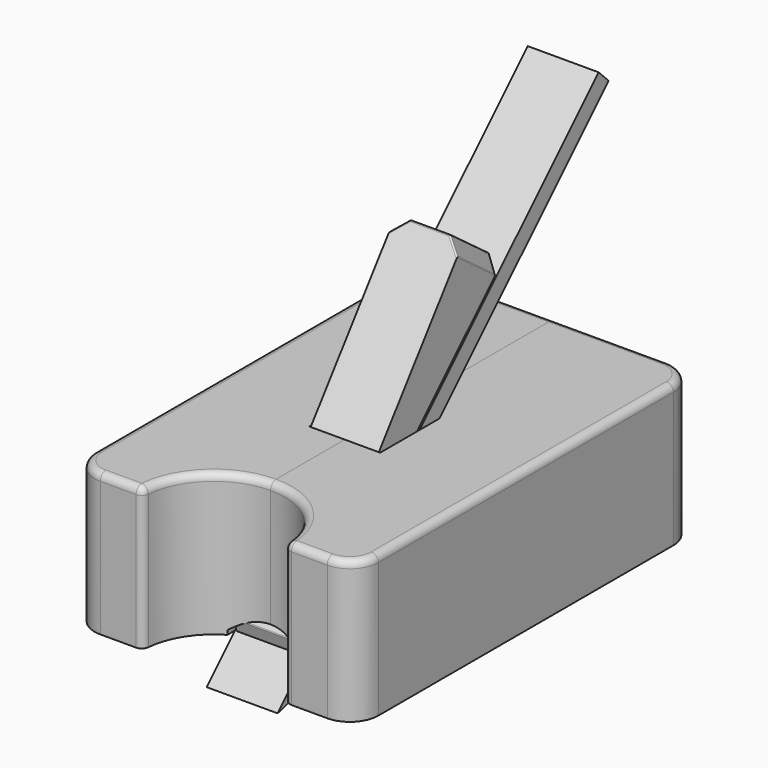
from build123d import *

# Parameters (mm, degrees)
F0_W      = 76.2
F0_H      = 25.4
F1_DEPTH  = 25.4
F4_DEPTH  = 6.35
F6_DEPTH  = 25.401
F7_R      = 5.08
F8_R      = 1.27
F11_DEPTH = 6.096
F13_SIZE  = 2.54
F14_R     = 0.254
F15_DEPTH = 6.35
F17_DEPTH = 31.751


with BuildPart() as f1:
    # F0 (on Right) → F1 (new body)
    with BuildSketch(Plane.YZ):
        with Locations((0, 12.7)):
            Rectangle(F0_W, F0_H)
    extrude(amount=F1_DEPTH)

    # F3 (on Right) → F4 (cut)
    with BuildSketch(Plane.YZ):
        Polygon((-27.6551328865, 0), (-20.9098719395, 0), (4.4901280605, 25.4), (-8.7829526009, 25.4), align=None)
    extrude(amount=F4_DEPTH, mode=Mode.SUBTRACT)

    # F5 (on face) → F6 (cut, through all)
    with BuildSketch(Plane.XY.offset(25.4)):
        with BuildLine():
            Line((0, -38.1), (12.7, -38.1))
            ThreePointArc((12.7, -38.1), (8.9802561211, -29.1197438789), (0, -25.4))
            Line((0, -25.4), (0, -38.1))
        make_face()
    extrude(amount=-F6_DEPTH, mode=Mode.SUBTRACT)

    # F7
    f7_edges = [f1.edges().sort_by_distance(p)[0] for p in [
        (25.4, -38.1, 12.7),
        (25.4, 38.1, 12.7),
    ]]
    fillet(f7_edges, radius=F7_R)

    # F8
    f8_edges = [f1.edges().sort_by_distance(p)[0] for p in [
        (25.4, 0, 25.4),
        (8.980256, -29.119744, 25.4),
        (12.7, -38.1, 12.7),
    ]]
    fillet(f8_edges, radius=F8_R)


with BuildPart() as f9_1:
    # F9: instance of F1
    add(f1.part.mirror(Plane.YZ))


with BuildPart() as f11:
    # F10 (on Right) → F11 (new body, symmetric)
    with BuildSketch(Plane.YZ):
        Polygon((19.1477272148, 44.5477272148), (10.3181454552, 51.108099609), (-25.9977169814, 2.2307101433), (-25.4, 0), align=None)
    extrude(amount=F11_DEPTH, both=True)

    # F13
    f13_edges = [f11.edges().sort_by_distance(p)[0] for p in [
        (-6.096, 14.732936, 47.827913),
        (6.096, 14.732936, 47.827913),
    ]]
    chamfer(f13_edges, length=F13_SIZE)

    # F14
    f14_edges = [f11.edges().sort_by_distance(p)[0] for p in [
        (0, -25.997717, 2.23071),
        (3.556, 14.732936, 47.827913),
        (6.096, 13.067777, 45.900763),
        (-3.556, 14.732936, 47.827913),
        (-6.096, 13.067777, 45.900763),
        (0, 10.318145, 51.1081),
        (-4.826, 9.560721, 50.088684),
        (4.826, 9.560721, 50.088684),
        (-4.826, 18.239992, 43.639992),
        (4.826, 18.239992, 43.639992),
        (0, 19.147727, 44.547727),
    ]]
    fillet(f14_edges, radius=F14_R)


with BuildPart() as f15:
    # F12 (on Right) → F15 (new body, symmetric)
    with BuildSketch(Plane.YZ):
        Polygon((40.0920489686, 65.4920489686), (-31.75, -6.35), (-29.5049359697, -8.5950640303), (42.3371129988, 63.2469849383), align=None)
    extrude(amount=F15_DEPTH, both=True)

    # F16 (on face) → F17 (cut, through all)
    with BuildSketch(Plane.YZ.offset(6.35)):
        Polygon((-25.6163710031, -4.7064990636), (-31.75, -6.35), (-29.5049359697, -8.5950640303), align=None)
    extrude(amount=-F17_DEPTH, mode=Mode.SUBTRACT)


solid = Compound([f1.part, f9_1.part, f11.part, f15.part])
